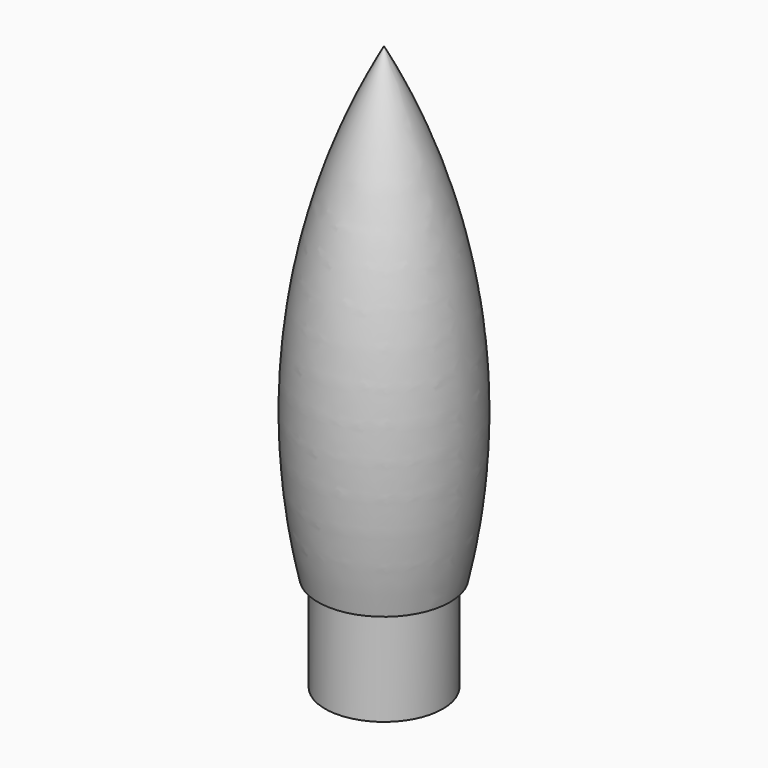
from build123d import *


with BuildPart() as f1:
    # F0 (on Front) → F1 (revolve)
    with BuildSketch(Plane.XZ):
        with BuildLine():
            Line((0, 102.3774494576), (0, 99))
            ThreePointArc((0, 99), (12.2915294881, 59.9540141815), (10.7002, 19.05))
            Line((10.7002, 19.05), (9.1, 19.05))
            Line((9.1, 19.05), (9.1, 0))
            Line((9.1, 0), (10.6875, 0))
            Line((10.6875, 0), (10.6875, 17.4625))
            Line((10.6875, 17.4625), (11.9769591716, 17.4625))
            ThreePointArc((11.9769591716, 17.4625), (13.7481962971, 61.0144558635), (0, 102.3774494576))
        make_face()
    revolve(axis=Axis((0, 0, 49.5), (0, 0, 1)))


solid = f1.part
